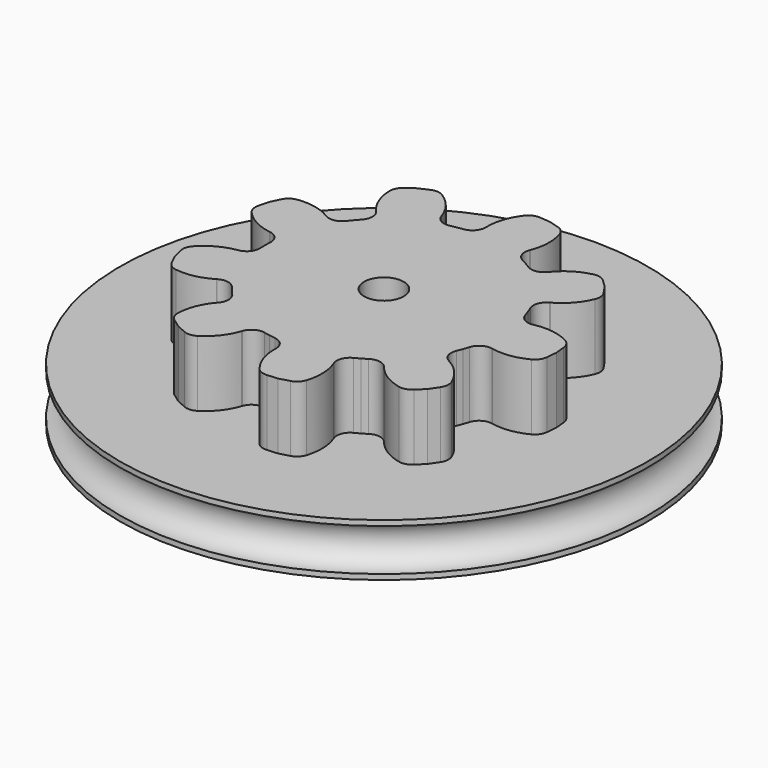
from build123d import *

# Parameters (mm, degrees)
F1_DEPTH = 5
F2_COUNT = 9
F4_R     = 1.5
F5_DEPTH = 5


with BuildPart() as f1:
    # F0 (on Top) → F1 (new body)
    with BuildSketch(Plane.XY):
        with BuildLine():
            Line((8.305078, 3.467805), (0, 0))
            Line((0, 0), (8.305078, -3.467805))
            ThreePointArc((8.305078, -3.467805), (8.464361, -3.058527), (8.603489, -2.641966))
            ThreePointArc((8.603489, -2.641966), (9.047406, -2.076548), (9.755918, -1.955011))
            Line((9.755918, -1.955011), (9.805066, -1.96486))
            ThreePointArc((9.805066, -1.96486), (11.163417, -2.001728), (12.455768, -1.581844))
            ThreePointArc((12.455768, -1.581844), (12.819329, -1.255462), (12.98487, -0.795791))
            Line((12.98487, -0.795791), (13.06382, 0))
            Line((13.06382, 0), (12.98487, 0.795791))
            ThreePointArc((12.98487, 0.795791), (12.819329, 1.255462), (12.455768, 1.581844))
            ThreePointArc((12.455768, 1.581844), (11.163417, 2.001728), (9.805066, 1.96486))
            Line((9.805066, 1.96486), (9.755918, 1.955011))
            ThreePointArc((9.755918, 1.955011), (9.047406, 2.076548), (8.603489, 2.641966))
            ThreePointArc((8.603489, 2.641966), (8.464361, 3.058527), (8.305078, 3.467805))
        make_face()
    extrude(amount=F1_DEPTH)


with BuildPart() as f2_1:
    # F2: instance of F1
    add(f1.part.rotate(Axis((0, 0, 2.5), (0, 0, 1)), 1 * 360 / F2_COUNT))


with BuildPart() as f2_2:
    # F2: instance of F1
    add(f1.part.rotate(Axis((0, 0, 2.5), (0, 0, 1)), 2 * 360 / F2_COUNT))


with BuildPart() as f2_3:
    # F2: instance of F1
    add(f1.part.rotate(Axis((0, 0, 2.5), (0, 0, 1)), 3 * 360 / F2_COUNT))


with BuildPart() as f2_4:
    # F2: instance of F1
    add(f1.part.rotate(Axis((0, 0, 2.5), (0, 0, 1)), 4 * 360 / F2_COUNT))


with BuildPart() as f2_5:
    # F2: instance of F1
    add(f1.part.rotate(Axis((0, 0, 2.5), (0, 0, 1)), 5 * 360 / F2_COUNT))


with BuildPart() as f2_6:
    # F2: instance of F1
    add(f1.part.rotate(Axis((0, 0, 2.5), (0, 0, 1)), 6 * 360 / F2_COUNT))


with BuildPart() as f2_7:
    # F2: instance of F1
    add(f1.part.rotate(Axis((0, 0, 2.5), (0, 0, 1)), 7 * 360 / F2_COUNT))


with BuildPart() as f2_8:
    # F2: instance of F1
    add(f1.part.rotate(Axis((0, 0, 2.5), (0, 0, 1)), 8 * 360 / F2_COUNT))


with BuildPart() as f2_7_1:
    add(f2_7.part)

    # F3: union F2_6, F2_4, F2_5, F1, F2_1, F2_3, F2_2, F2_8
    add(f2_6.part)
    add(f2_4.part)
    add(f2_5.part)
    add(f1.part)
    add(f2_1.part)
    add(f2_3.part)
    add(f2_2.part)
    add(f2_8.part)

    # F4 (on face) → F5 (cut, through all)
    with BuildSketch(Plane.XY.offset(5)):
        Circle(F4_R)
    extrude(amount=-F5_DEPTH, mode=Mode.SUBTRACT)

    # F6 (on Right) → F7 (revolve)
    with BuildSketch(Plane.YZ):
        with BuildLine():
            Line((20, 0), (1.25, 0))
            Line((1.25, 0), (1.25, -4))
            Line((1.25, -4), (20, -4))
            Line((20, -4), (20, -3.6))
            ThreePointArc((20, -3.6), (18.4, -2), (20, -0.4))
            Line((20, -0.4), (20, 0))
        make_face()
    revolve(axis=Axis((0, 0, -1.51735), (0, 0, -1)))


solid = f2_7_1.part
